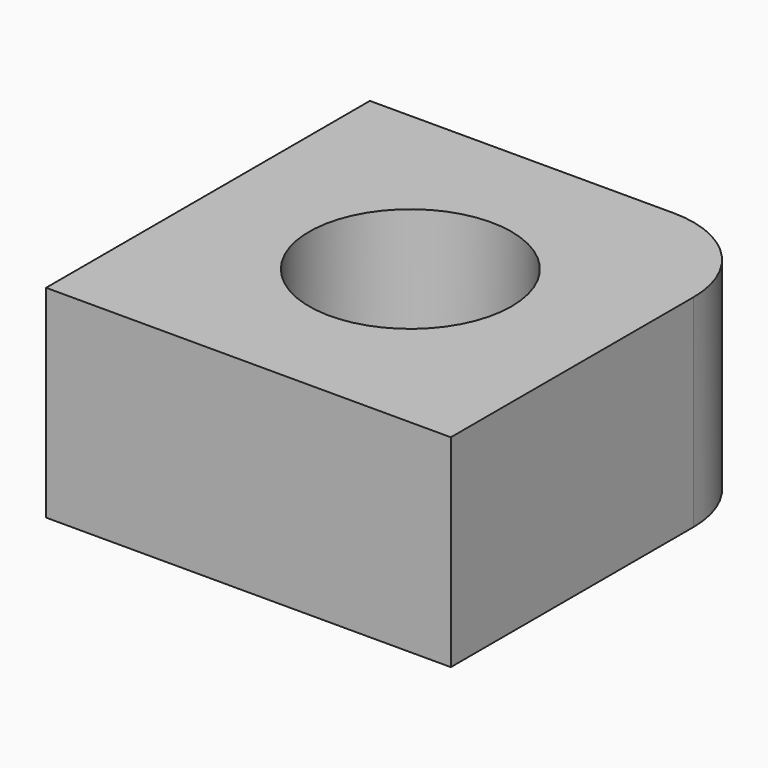
from build123d import *

# Parameters (mm, degrees)
F0_R     = 5
F1_DEPTH = 10


with BuildPart() as f1:
    # F0 (on Top) → F1 (new body)
    with BuildSketch(Plane.XY):
        with BuildLine():
            Line((0, 20), (0, 0))
            Line((0, 0), (20, 0))
            Line((20, 0), (20, 15))
            ThreePointArc((20, 15), (18.535534, 18.535534), (15, 20))
            Line((15, 20), (0, 20))
        make_face()
        with Locations((10, 10)):
            Circle(F0_R, mode=Mode.SUBTRACT)
    extrude(amount=F1_DEPTH)


solid = f1.part
